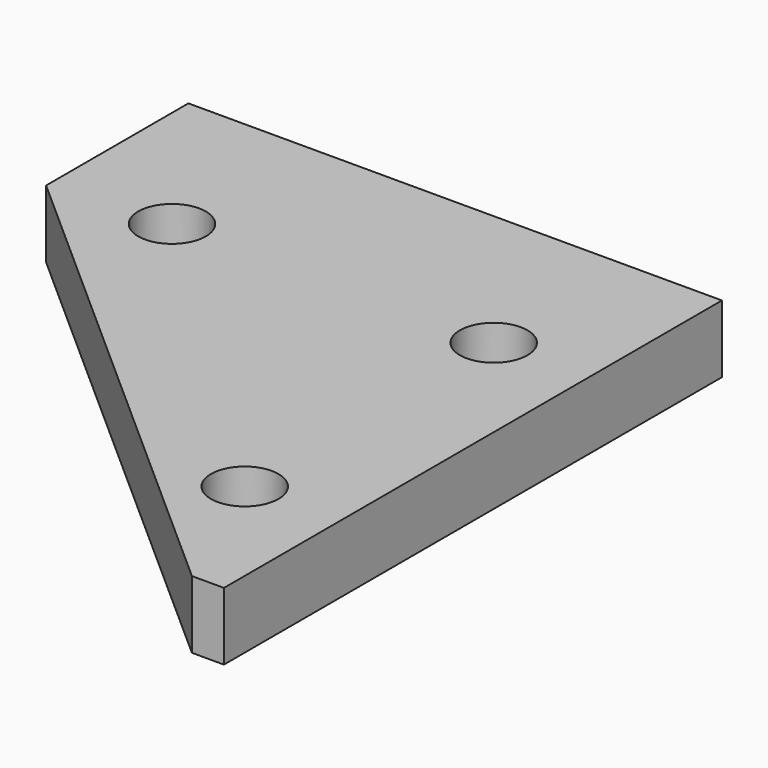
from build123d import *

# Parameters (mm, degrees)
F0_R     = 4.826
F1_DEPTH = 9.652


with BuildPart() as f1:
    # F0 (on Top) → F1 (new body)
    with BuildSketch(Plane.XY):
        Polygon((-44.778837, 53.15857), (26.849163, -10.34143), (31.421163, -10.34143), (31.421163, 78.55857), (-44.778837, 78.55857), align=None)
        with Locations((17.930914, 10.23257)):
            Circle(F0_R, mode=Mode.SUBTRACT)
        with Locations((-28.014837, 54.68257)):
            Circle(F0_R, mode=Mode.SUBTRACT)
        with Locations((17.930914, 54.68257)):
            Circle(F0_R, mode=Mode.SUBTRACT)
    extrude(amount=F1_DEPTH)


solid = f1.part
